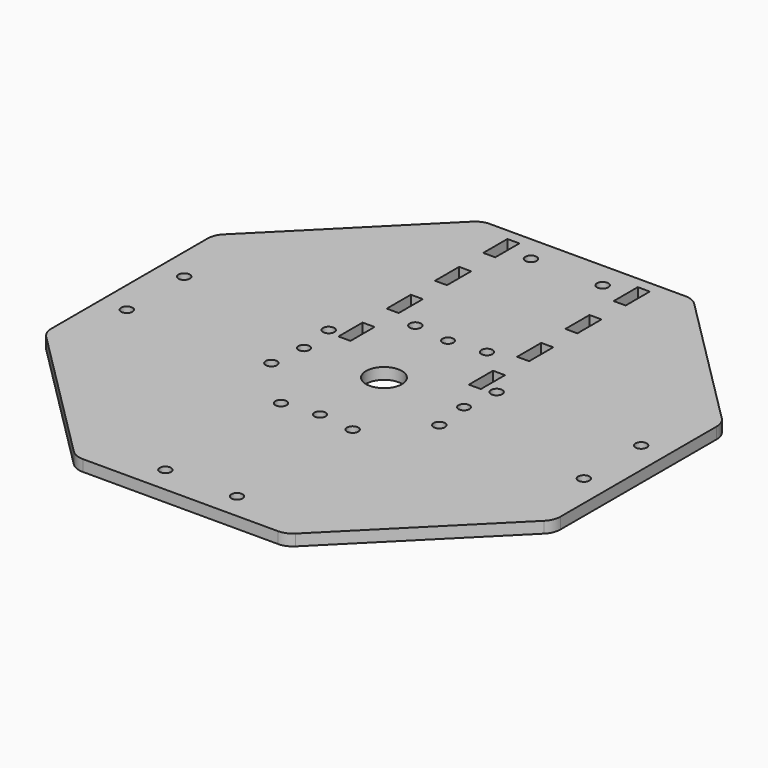
from build123d import *

# Parameters (mm, degrees)
F0_R     = 1.5
F0_R_2   = 1.45
F0_W     = 3.18
F0_H     = 8
F0_R_3   = 4.75
F1_DEPTH = 3
F2_R     = 5


with BuildPart() as f1:
    # F0 (on Top) → F1 (new body)
    with BuildSketch(Plane.XY):
        Polygon((67.5, 27.96), (27.96, 67.5), (-27.96, 67.5), (-67.5, 27.96), (-67.5, -27.96), (-27.96, -67.5), (27.96, -67.5), (67.5, -27.96), align=None)
        with Locations((-9.5, -60.598515)):
            Circle(F0_R, mode=Mode.SUBTRACT)
        with Locations((-60.598515, -9.5)):
            Circle(F0_R, mode=Mode.SUBTRACT)
        with Locations((-9.5, -22.265932)):
            Circle(F0_R, mode=Mode.SUBTRACT)
        with Locations((-22.265932, -9.5)):
            Circle(F0_R, mode=Mode.SUBTRACT)
        with Locations((9.5, -60.598515)):
            Circle(F0_R, mode=Mode.SUBTRACT)
        with Locations((0, -21.215)):
            Circle(F0_R_2, mode=Mode.SUBTRACT)
        with Locations((9.5, -22.265932)):
            Circle(F0_R, mode=Mode.SUBTRACT)
        with Locations((22.265932, -9.5)):
            Circle(F0_R, mode=Mode.SUBTRACT)
        with Locations((60.598515, -9.5)):
            Circle(F0_R, mode=Mode.SUBTRACT)
        with Locations((-60.598515, 9.5)):
            Circle(F0_R, mode=Mode.SUBTRACT)
        with Locations((-21.215, 0)):
            Circle(F0_R_2, mode=Mode.SUBTRACT)
        with Locations((-22.265932, 9.5)):
            Circle(F0_R, mode=Mode.SUBTRACT)
        with Locations((-17.29, 12.5)):
            Rectangle(F0_W, F0_H, mode=Mode.SUBTRACT)
        with Locations((-17.29, 28.5)):
            Rectangle(F0_W, F0_H, mode=Mode.SUBTRACT)
        with Locations((-9.5, 22.265932)):
            Circle(F0_R, mode=Mode.SUBTRACT)
        with Locations((-17.29, 44.5)):
            Rectangle(F0_W, F0_H, mode=Mode.SUBTRACT)
        with Locations((-17.29, 60.5)):
            Rectangle(F0_W, F0_H, mode=Mode.SUBTRACT)
        with Locations((-9.5, 60.598515)):
            Circle(F0_R, mode=Mode.SUBTRACT)
        Circle(F0_R_3, mode=Mode.SUBTRACT)
        with Locations((21.215, 0)):
            Circle(F0_R_2, mode=Mode.SUBTRACT)
        with Locations((17.29, 12.5)):
            Rectangle(F0_W, F0_H, mode=Mode.SUBTRACT)
        with Locations((22.265932, 9.5)):
            Circle(F0_R, mode=Mode.SUBTRACT)
        with Locations((0, 21.215)):
            Circle(F0_R_2, mode=Mode.SUBTRACT)
        with Locations((9.5, 22.265932)):
            Circle(F0_R, mode=Mode.SUBTRACT)
        with Locations((17.29, 28.5)):
            Rectangle(F0_W, F0_H, mode=Mode.SUBTRACT)
        with Locations((60.598515, 9.5)):
            Circle(F0_R, mode=Mode.SUBTRACT)
        with Locations((17.29, 44.5)):
            Rectangle(F0_W, F0_H, mode=Mode.SUBTRACT)
        with Locations((9.5, 60.598515)):
            Circle(F0_R, mode=Mode.SUBTRACT)
        with Locations((17.29, 60.5)):
            Rectangle(F0_W, F0_H, mode=Mode.SUBTRACT)
    extrude(amount=F1_DEPTH)

    # F2
    f2_edges = [f1.edges().sort_by_distance(p)[0] for p in [
        (-27.96, 67.5, 1.5),
        (-67.5, 27.96, 1.5),
        (-67.5, -27.96, 1.5),
        (-27.96, -67.5, 1.5),
        (27.96, -67.5, 1.5),
        (67.5, -27.96, 1.5),
        (67.5, 27.96, 1.5),
        (27.96, 67.5, 1.5),
    ]]
    fillet(f2_edges, radius=F2_R)


solid = f1.part
